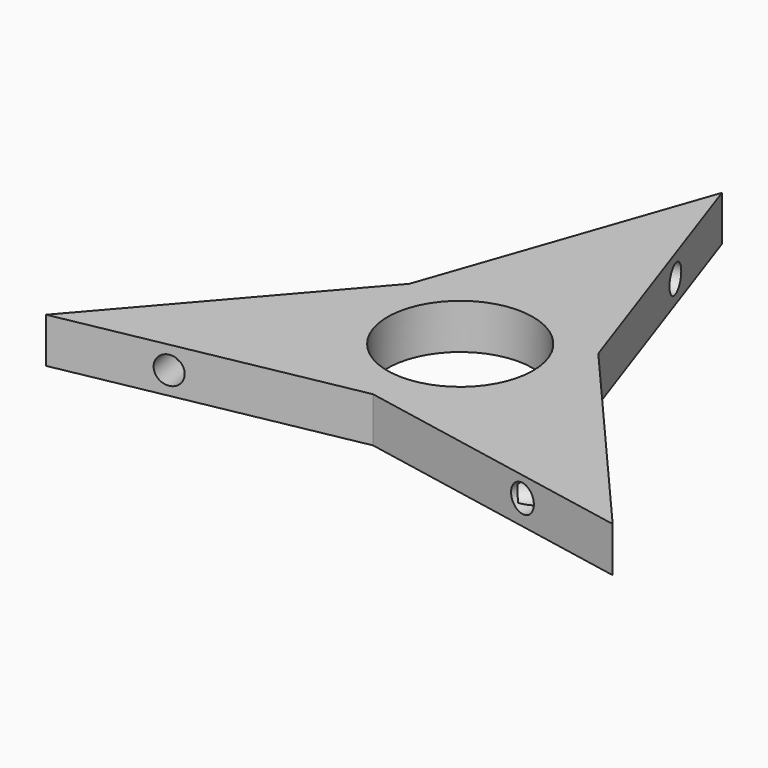
from build123d import *

# Parameters (mm, degrees)
F0_R          = 11.2999999997
F1_DEPTH      = 7.0000000005
F2_R          = 2.1333927031
F3_DEPTH      = 10.922
F3_DEPTH_BACK = 25.4
F4_R          = 2.1336
F5_DEPTH      = 10.922
F6_R          = 2.1336
F7_DEPTH      = 10.922
F8_R          = 2.1336
F9_DEPTH      = 10.922
F10_R         = 2.1336
F11_DEPTH     = 10.922
F12_R         = 2.1336
F13_DEPTH     = 10.922


with BuildPart() as f1:
    # F0 (on Top) → F1 (new body)
    with BuildSketch(Plane.XY):
        Polygon((14.6646968374, 33.8666666667), (0, 76.2), (-14.6646968374, 33.8666666667), (-43.9940905122, 0), (0, 8.4666666667), (43.9940905122, 0), align=None)
        with Locations((0, 25.4)):
            Circle(F0_R, mode=Mode.SUBTRACT)
    extrude(amount=F1_DEPTH)

    # F2 (on face) → F3 (cut, two sides)
    with BuildSketch(Plane(origin=(-1.5712175183, 8.1642857143, 0), x_dir=(0.9819805061, 0.1889822365, 0), z_dir=(0.1889822365, -0.9819805061, 0))) as f3_sk:
        with Locations((-26.335739265, 3.5000000002)):
            Circle(F2_R)
    extrude(amount=-F3_DEPTH, mode=Mode.SUBTRACT)
    extrude(f3_sk.sketch, amount=F3_DEPTH_BACK, mode=Mode.SUBTRACT)

    # F4 (on face) → F5 (cut)
    with BuildSketch(Plane(origin=(-25.1394802927, 21.7714285714, 0), x_dir=(-0.6546536707, -0.755928946, 0), z_dir=(-0.755928946, 0.6546536707, 0))):
        with Locations((11.9352928433, 3.5000000002)):
            Circle(F4_R)
    extrude(amount=-F5_DEPTH, mode=Mode.SUBTRACT)

    # F6 (on face) → F7 (cut)
    with BuildSketch(Plane(origin=(23.5682627744, 8.1642857143, 0), x_dir=(-0.3273268354, 0.9449111825, 0), z_dir=(0.9449111825, 0.3273268354, 0))):
        with Locations((55.1366321083, 3.5000000002)):
            Circle(F6_R)
    extrude(amount=-F7_DEPTH, mode=Mode.SUBTRACT)

    # F8 (on face) → F9 (cut)
    with BuildSketch(Plane(origin=(-23.5682627744, 8.1642857143, 0), x_dir=(-0.3273268354, -0.9449111825, 0), z_dir=(-0.9449111825, 0.3273268354, 0))):
        with Locations((-55.1397637729, 3.8250000005)):
            Circle(F8_R)
    extrude(amount=-F9_DEPTH, mode=Mode.SUBTRACT)

    # F10 (on face) → F11 (cut)
    with BuildSketch(Plane(origin=(25.1394802927, 21.7714285714, 0), x_dir=(-0.6546536707, 0.755928946, 0), z_dir=(0.755928946, 0.6546536707, 0))):
        with Locations((-11.938424508, 3.175)):
            Circle(F10_R)
    extrude(amount=-F11_DEPTH, mode=Mode.SUBTRACT)

    # F12 (on face) → F13 (cut)
    with BuildSketch(Plane(origin=(1.5712175183, 8.1642857143, 0), x_dir=(0.9819805061, -0.1889822365, 0), z_dir=(-0.1889822365, -0.9819805061, 0))):
        with Locations((26.3388709296, 3.8250000005)):
            Circle(F12_R)
    extrude(amount=-F13_DEPTH, mode=Mode.SUBTRACT)


solid = f1.part
